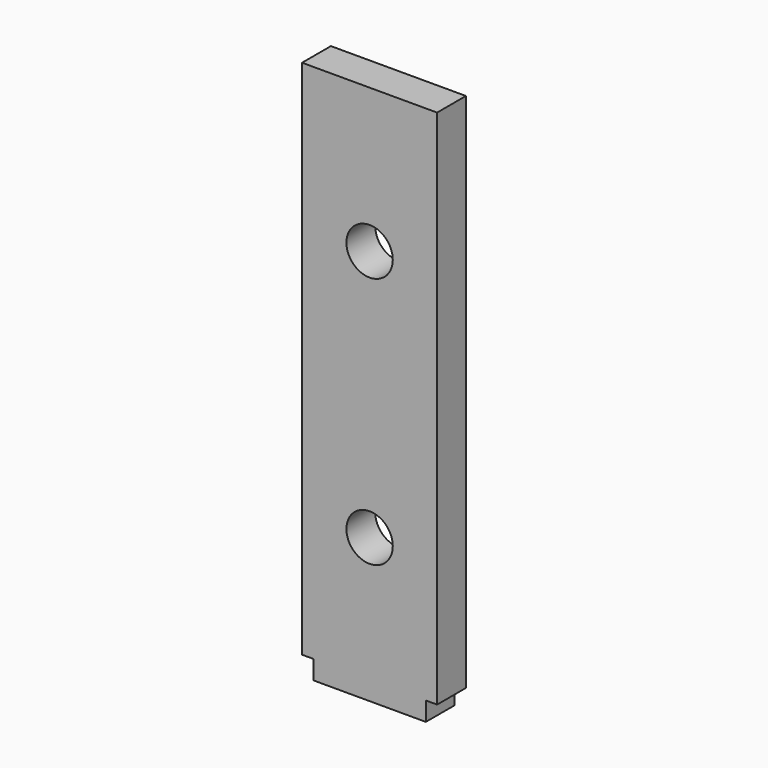
from build123d import *

# Parameters (mm, degrees)
F0_R     = 5.15
F1_DEPTH = 4


with BuildPart() as f1:
    # F0 (on Front) → F1 (new body, symmetric)
    with BuildSketch(Plane.XZ):
        Polygon((15, 0), (-15, 0), (-15, -115.8), (-12.5, -115.8), (-12.5, -120), (12.5, -120), (12.5, -115.8), (15, -115.8), align=None)
        with Locations((0, -88)):
            Circle(F0_R, mode=Mode.SUBTRACT)
        with Locations((0, -32)):
            Circle(F0_R, mode=Mode.SUBTRACT)
    extrude(amount=F1_DEPTH, both=True)


solid = f1.part
